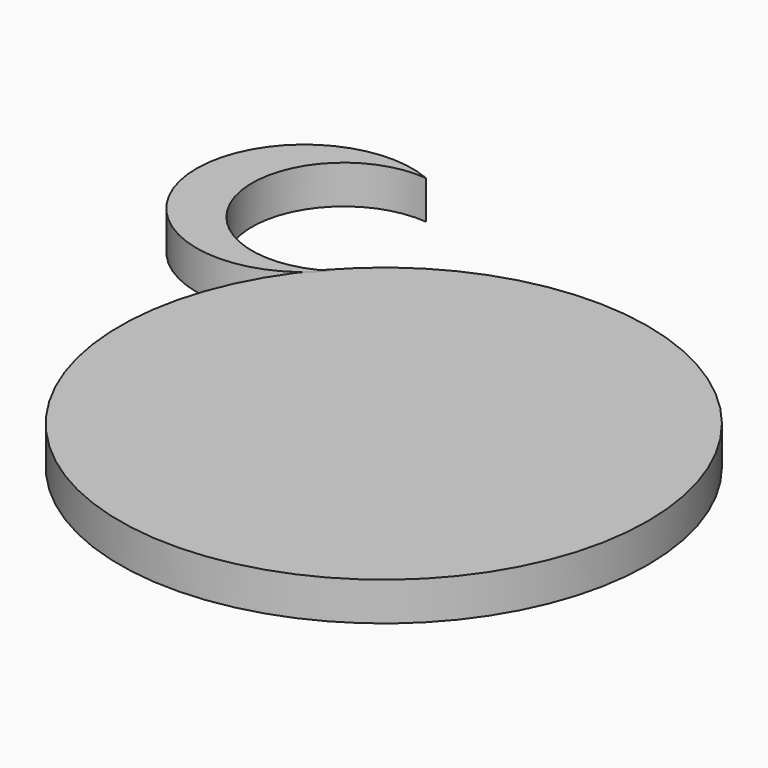
from build123d import *

# Parameters (mm, degrees)
F2_START = -0.1671565697
F0_R     = 51.0596699872
F2_DEPTH = 7.4528434303


with BuildPart() as f2:
    # F0 (on Top) → F2 (new body)
    with BuildSketch(Plane.XY.offset(F2_START)):
        Circle(F0_R)
    extrude(amount=-F2_DEPTH)


with BuildPart() as f2b:
    # F1 (on Top) → F2, piece 2 (new body)
    with BuildSketch(Plane.XY.offset(F2_START)):
        with BuildLine():
            ThreePointArc((-37.3976192057, 34.0441051263), (-64.2074274415, 44.8972695268), (-45.1905801892, 66.6898488998))
            ThreePointArc((-45.1905801892, 66.6898488998), (-73.6405739448, 42.6454555335), (-37.3976192057, 34.0441051263))
        make_face()
    extrude(amount=-F2_DEPTH)


solid = Compound([f2.part, f2b.part])
